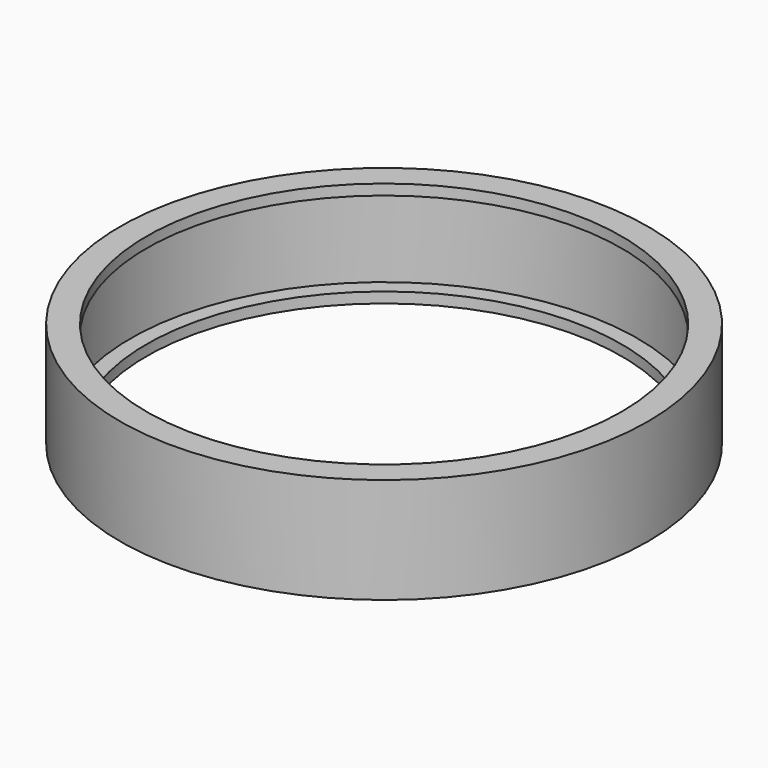
from build123d import *

# Parameters (mm, degrees)
F0_R     = 63.5
F0_R_2   = 57.15
F1_DEPTH = 25.4
F2_T     = -2.54


with BuildPart() as f1:
    # F0 (on Top) → F1 (new body)
    with BuildSketch(Plane.XY):
        Circle(F0_R)
        Circle(F0_R_2, mode=Mode.SUBTRACT)
    extrude(amount=F1_DEPTH)

    # F2
    f2_openings = [f1.faces().sort_by_distance(p)[0] for p in [
        (-57.15, 0, 12.7),
    ]]
    offset(amount=F2_T, openings=f2_openings)


solid = f1.part
